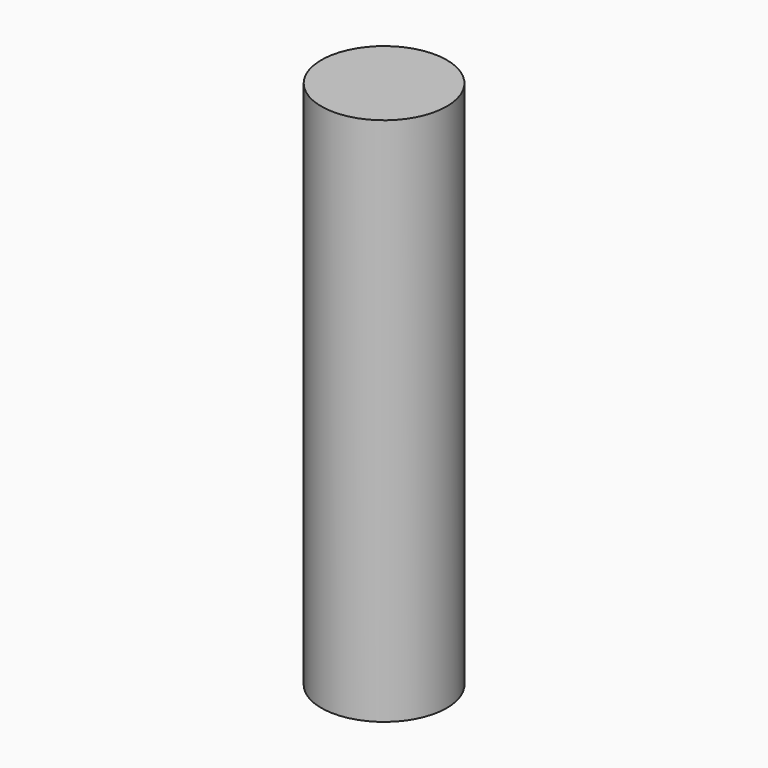
from build123d import *

# Parameters (mm, degrees)
CYLINDER_R     = 1.778
CYLINDER_DEPTH = 15


with BuildPart() as part:
    # Cylinder → Cylinder (new body)
    with BuildSketch(Plane.XY.offset(-2.5)):
        Circle(CYLINDER_R)
    extrude(amount=CYLINDER_DEPTH)


solid = part.part
